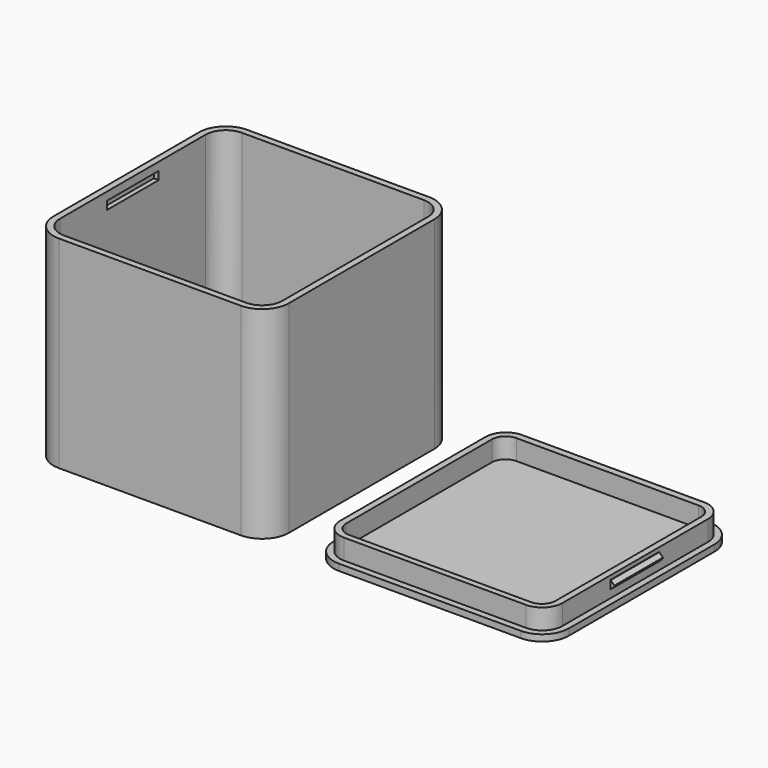
from build123d import *

# Parameters (mm, degrees)
BOX006_W          = 57.4
BOX006_H          = 16
BOX006_DEPTH      = 2
BOX005_W          = 6
BOX005_H          = 3
BOX005_DEPTH      = 10
BOX004_W          = 51.8
BOX004_H          = 51.8
BOX004_DEPTH      = 5
BOX003_W          = 55
BOX003_H          = 55
BOX003_DEPTH      = 6.6
FILLET003_R       = 3.4
FILLET004_R       = 5
BOX002_W          = 58.2
BOX002_H          = 58.2
BOX002_DEPTH      = 1.6
FILLET002_R       = 6.6
CYLINDER003_R     = 1
CYLINDER003_DEPTH = 10
CYLINDER002_R     = 1
CYLINDER002_DEPTH = 10
CYLINDER001_R     = 1
CYLINDER001_DEPTH = 10
CYLINDER004_R     = 1
CYLINDER004_DEPTH = 10
CYLINDER_R        = 25
CYLINDER_DEPTH    = 5
BOX_W             = 55
BOX_H             = 55
BOX_DEPTH         = 50
BOX001_W          = 58.2
BOX001_H          = 58.2
BOX001_DEPTH      = 50
FILLET_R          = 5
FILLET001_R       = 6.6
BOX008_W          = 1.2
BOX008_H          = 15
BOX008_DEPTH      = 2
CHAMFER001_SIZE   = 0.9
BOX007_W          = 1.2
BOX007_H          = 15
BOX007_DEPTH      = 2
CHAMFER_SIZE      = 0.9


with BuildPart() as obj1:
    # Box006 → Box006 (new body)
    with BuildSketch(Plane(origin=(-28.7, -8, 46), x_dir=(1, 0, 0), z_dir=(0, 0, 1))):
        with Locations((28.7, 8)):
            Rectangle(BOX006_W, BOX006_H)
    extrude(amount=BOX006_DEPTH)


with BuildPart() as obj2:
    # Box005 → Box005 (new body)
    with BuildSketch(Plane(origin=(66.5, -25.8, 0), x_dir=(1, 0, 0), z_dir=(0, 0, 1))):
        with Locations((3, 1.5)):
            Rectangle(BOX005_W, BOX005_H)
    extrude(amount=BOX005_DEPTH)


with BuildPart() as obj3:
    # Box004 → Box004 (new body)
    with BuildSketch(Plane(origin=(43.2, -25.8, 1.6), x_dir=(1, 0, 0), z_dir=(0, 0, 1))):
        with Locations((25.9, 25.9)):
            Rectangle(BOX004_W, BOX004_H)
    extrude(amount=BOX004_DEPTH)


with BuildPart() as fillet004:
    # Box003 → Box003 (new body)
    with BuildSketch(Plane(origin=(41.6, -27.3, 0), x_dir=(1, 0, 0), z_dir=(0, 0, 1))):
        with Locations((27.5, 27.5)):
            Rectangle(BOX003_W, BOX003_H)
    extrude(amount=BOX003_DEPTH)

    # Cut003: cut obj3
    add(obj3.part, mode=Mode.SUBTRACT)

    # Fillet003
    fillet003_edges = [fillet004.edges().sort_by_distance(p)[0] for p in [
        (95, -25.8, 4.1),
        (95, 26, 4.1),
        (43.2, 26, 4.1),
        (43.2, -25.8, 4.1),
    ]]
    fillet(fillet003_edges, radius=FILLET003_R)

    # Fillet004
    fillet004_edges = [fillet004.edges().sort_by_distance(p)[0] for p in [
        (41.6, -27.3, 3.3),
        (41.6, 27.7, 3.3),
        (96.6, 27.7, 3.3),
        (96.6, -27.3, 3.3),
    ]]
    fillet(fillet004_edges, radius=FILLET004_R)


with BuildPart() as cut004:
    # Box002 → Box002 (new body)
    with BuildSketch(Plane(origin=(40, -28.9, 0), x_dir=(1, 0, 0), z_dir=(0, 0, 1))):
        with Locations((29.1, 29.1)):
            Rectangle(BOX002_W, BOX002_H)
    extrude(amount=BOX002_DEPTH)

    # Fillet002
    fillet002_edges = [cut004.edges().sort_by_distance(p)[0] for p in [
        (40, -28.9, 0.8),
        (40, 29.3, 0.8),
        (98.2, -28.9, 0.8),
        (98.2, 29.3, 0.8),
    ]]
    fillet(fillet002_edges, radius=FILLET002_R)

    # Fusion001: union Fillet004
    add(fillet004.part)

    # Cut004: cut obj2
    add(obj2.part, mode=Mode.SUBTRACT)


with BuildPart() as zylinder003:
    # Cylinder003 → Cylinder003 (new body)
    with BuildSketch(Plane(origin=(-21, 21, 1.6), x_dir=(1, 0, 0), z_dir=(0, 0, 1))):
        Circle(CYLINDER003_R)
    extrude(amount=CYLINDER003_DEPTH)


with BuildPart() as zylinder002:
    # Cylinder002 → Cylinder002 (new body)
    with BuildSketch(Plane(origin=(21, -21, 1.6), x_dir=(1, 0, 0), z_dir=(0, 0, 1))):
        Circle(CYLINDER002_R)
    extrude(amount=CYLINDER002_DEPTH)


with BuildPart() as zylinder001:
    # Cylinder001 → Cylinder001 (new body)
    with BuildSketch(Plane(origin=(21, 21, 1.6), x_dir=(1, 0, 0), z_dir=(0, 0, 1))):
        Circle(CYLINDER001_R)
    extrude(amount=CYLINDER001_DEPTH)


with BuildPart() as fusion:
    # Cylinder004 → Cylinder004 (new body)
    with BuildSketch(Plane(origin=(-21, -21, 1.6), x_dir=(1, 0, 0), z_dir=(0, 0, 1))):
        Circle(CYLINDER004_R)
    extrude(amount=CYLINDER004_DEPTH)

    # Fusion: union Zylinder003, Zylinder002, Zylinder001
    add(zylinder003.part)
    add(zylinder002.part)
    add(zylinder001.part)


with BuildPart() as zylinder:
    # Cylinder → Cylinder (new body)
    with BuildSketch(Plane.XY):
        Circle(CYLINDER_R)
    extrude(amount=CYLINDER_DEPTH)


with BuildPart() as obj4:
    # Box → Box (new body)
    with BuildSketch(Plane(origin=(-27.5, -27.5, 5), x_dir=(1, 0, 0), z_dir=(0, 0, 1))):
        with Locations((27.5, 27.5)):
            Rectangle(BOX_W, BOX_H)
    extrude(amount=BOX_DEPTH)


with BuildPart() as cut005:
    # Box001 → Box001 (new body)
    with BuildSketch(Plane(origin=(-29.1, -29.1, 0), x_dir=(1, 0, 0), z_dir=(0, 0, 1))):
        with Locations((29.1, 29.1)):
            Rectangle(BOX001_W, BOX001_H)
    extrude(amount=BOX001_DEPTH)

    # Cut: cut obj4
    add(obj4.part, mode=Mode.SUBTRACT)

    # Cut001: cut Zylinder
    add(zylinder.part, mode=Mode.SUBTRACT)

    # Fillet
    fillet_edges = [cut005.edges().sort_by_distance(p)[0] for p in [
        (27.5, -27.5, 27.5),
        (27.5, 27.5, 27.5),
        (-27.5, 27.5, 27.5),
        (-27.5, -27.5, 27.5),
    ]]
    fillet(fillet_edges, radius=FILLET_R)

    # Fillet001
    fillet001_edges = [cut005.edges().sort_by_distance(p)[0] for p in [
        (-29.1, -29.1, 25),
        (-29.1, 29.1, 25),
        (29.1, 29.1, 25),
        (29.1, -29.1, 25),
    ]]
    fillet(fillet001_edges, radius=FILLET001_R)

    # Cut002: cut Fusion
    add(fusion.part, mode=Mode.SUBTRACT)

    # Fusion002: union Cut004
    add(cut004.part)

    # Cut005: cut obj1
    add(obj1.part, mode=Mode.SUBTRACT)


with BuildPart() as chamfer001:
    # Box008 → Box008 (new body)
    with BuildSketch(Plane(origin=(96.4, -7.5, 3.6), x_dir=(1, 0, 0), z_dir=(0, 0, 1))):
        with Locations((0.6, 7.5)):
            Rectangle(BOX008_W, BOX008_H)
    extrude(amount=BOX008_DEPTH)

    # Chamfer001
    chamfer001_edges = [chamfer001.edges().sort_by_distance(p)[0] for p in [
        (97.6, 0, 5.6),
        (97.6, 0, 3.6),
    ]]
    chamfer(chamfer001_edges, length=CHAMFER001_SIZE)


with BuildPart() as fusion004:
    # Box007 → Box007 (new body)
    with BuildSketch(Plane(origin=(40.4, -7.5, 3.6), x_dir=(1, 0, 0), z_dir=(0, 0, 1))):
        with Locations((0.6, 7.5)):
            Rectangle(BOX007_W, BOX007_H)
    extrude(amount=BOX007_DEPTH)

    # Chamfer
    chamfer_edges = [fusion004.edges().sort_by_distance(p)[0] for p in [
        (40.4, 0, 5.6),
        (40.4, 0, 3.6),
    ]]
    chamfer(chamfer_edges, length=CHAMFER_SIZE)

    # Fusion003: union Chamfer001
    add(chamfer001.part)

    # Fusion004: union Cut005
    add(cut005.part)


solid = fusion004.part
